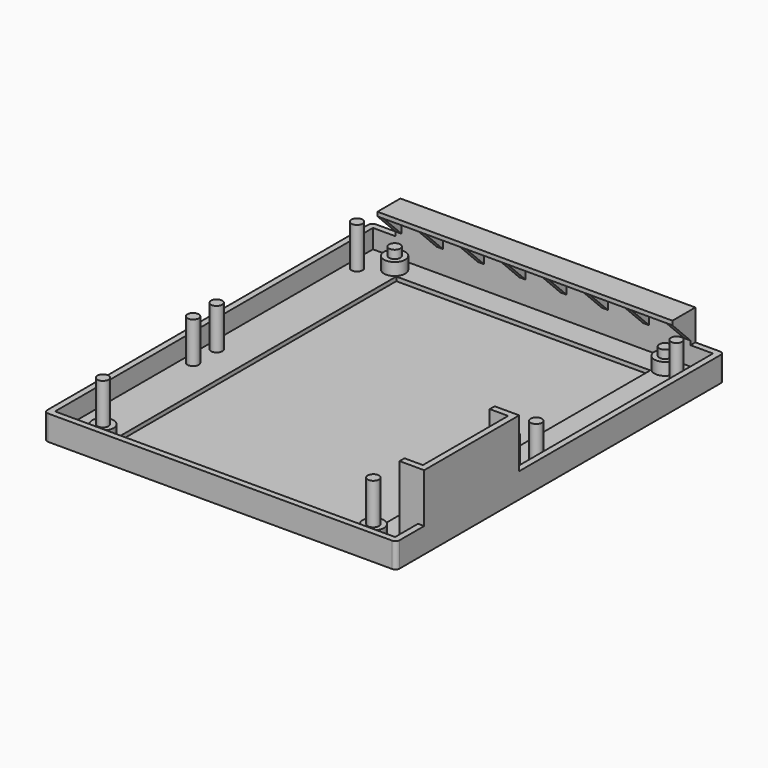
from build123d import *

# Parameters (mm, degrees)
SKETCH002_W            = 100
SKETCH002_H            = 1.5
PAD001_DEPTH           = 79
PAD001_DEPTH_BACK      = 7
SKETCH004_R            = 2.6
PAD003_DEPTH           = 3
SKETCH007_W            = 29
SKETCH007_H            = 1.5
PAD006_DEPTH           = 16.6
SKETCH008_W            = 29
SKETCH008_H            = 16.6
PAD007_DEPTH           = 4.5
SKETCH009_W            = 26
SKETCH009_H            = 16.6
POCKET001_DEPTH        = 10
SKETCH010_W            = 85
SKETCH010_H            = 62
POCKET002_DEPTH        = 1
PAD009_DEPTH           = 4.6
SKETCH019_W            = 1.5
SKETCH019_H            = 72
PAD015_DEPTH           = 6.5
PAD016_DEPTH           = 1.5
LINEARPATTERN_COUNT    = 8
LINEARPATTERN_PITCH    = 10.071429
SKETCH021_W            = 7
SKETCH021_H            = 72
PAD017_DEPTH           = 1
SKETCH022_R            = 1.4
SKETCH022_R_2          = 1.37
PAD023_DEPTH           = 2
SKETCH029_R            = 1.37
PAD024_DEPTH           = 10
SKETCH031_R            = 1.37
PAD026_DEPTH           = 10
FILLET001_R            = 1
LINEARPATTERN001_COUNT = 2
LINEARPATTERN001_PITCH = 42.8
SKETCH036_R            = 1.37
PAD029_DEPTH           = 10


with BuildPart() as part:
    # Sketch002 → Pad001 (new body, two sides)
    with BuildSketch(Plane.YZ) as pad001_sk:
        with Locations((47.5, -3.75)):
            Rectangle(SKETCH002_W, SKETCH002_H)
    extrude(amount=PAD001_DEPTH)
    extrude(pad001_sk.sketch, amount=-PAD001_DEPTH_BACK)

    # Sketch004 (on Face1 of Pad001) → Pad003 (join)
    with BuildSketch(Plane(origin=(0, 0, -3), x_dir=(0, -1, 0), z_dir=(0, 0, 1))):
        with Locations((-3, 3)):
            Circle(SKETCH004_R)
        with Locations((-3, 69)):
            Circle(SKETCH004_R)
        with Locations((-92, 3)):
            Circle(SKETCH004_R)
        with Locations((-92, 69)):
            Circle(SKETCH004_R)
    extrude(amount=PAD003_DEPTH)

    # Sketch007 (on Face1 of Pad003) → Pad006 (join)
    with BuildSketch(Plane(origin=(0, 0, -3), x_dir=(0, -1, 0), z_dir=(0, 0, 1))):
        with Locations((-20.5, 78.25)):
            Rectangle(SKETCH007_W, SKETCH007_H)
    extrude(amount=PAD006_DEPTH)

    # Sketch008 (on Face6 of Pad006) → Pad007 (join)
    with BuildSketch(Plane(origin=(77.5, 0, 0), x_dir=(0, 1, 0), z_dir=(-1, 0, 0))):
        with Locations((20.5, -5.3)):
            Rectangle(SKETCH008_W, SKETCH008_H)
    extrude(amount=PAD007_DEPTH)

    # Sketch009 (on Face6 of Pad006) → Pocket001 (cut)
    with BuildSketch(Plane(origin=(77.5, 0, 0), x_dir=(0, 1, 0), z_dir=(-1, 0, 0))):
        with Locations((20.5, -5.3)):
            Rectangle(SKETCH009_W, SKETCH009_H)
    extrude(amount=POCKET001_DEPTH, mode=Mode.SUBTRACT)

    # Sketch010 (on Face1 of Pocket001) → Pocket002 (cut)
    with BuildSketch(Plane(origin=(0, 0, -3), x_dir=(0, -1, 0), z_dir=(0, 0, 1))):
        with Locations((-47.5, 36)):
            Rectangle(SKETCH010_W, SKETCH010_H)
    extrude(amount=-POCKET002_DEPTH, mode=Mode.SUBTRACT)

    # Sketch012 (on Face1 of Pocket002) → Pad009 (join)
    with BuildSketch(Plane(origin=(0, 0, -3), x_dir=(0, -1, 0), z_dir=(0, 0, 1))):
        Polygon((-35, 79), (-35, 77.5), (-96, 77.5), (-96, -5.5), (1, -5.5), (1, 77.5), (-6, 77.5), (-6, 79), (2.5, 79), (2.5, -7), (-97.5, -7), (-97.5, 79), align=None)
    extrude(amount=PAD009_DEPTH)

    # Sketch019 (on Face20 of Pad009) → Pad015 (join)
    with BuildSketch(Plane(origin=(0, 0, 1.6), x_dir=(0, -1, 0), z_dir=(0, 0, 1))):
        with Locations((-96.75, 36)):
            Rectangle(SKETCH019_W, SKETCH019_H)
    extrude(amount=PAD015_DEPTH)

    # Sketch020 (on Face41 of Pad015) → Pad016 (join)
    with BuildSketch(Plane.YZ.offset(72)):
        Polygon((96, 8.1), (96, 2.6), (90.5, 8.1), align=None)
    pad016 = extrude(amount=-PAD016_DEPTH)

    # LinearPattern: Pad016 ×8
    with Locations(*[(-i * LINEARPATTERN_PITCH, 0, 0) for i in range(1, LINEARPATTERN_COUNT)]):
        add(pad016)

    # Sketch021 (on Face44 of LinearPattern) → Pad017 (join)
    with BuildSketch(Plane(origin=(0, 0, 8.1), x_dir=(0, -1, 0), z_dir=(0, 0, 1))):
        with Locations((-94, 36)):
            Rectangle(SKETCH021_W, SKETCH021_H)
    extrude(amount=PAD017_DEPTH)

    # Sketch022 (on Face31 of Pad017) → Pad023 (join)
    with BuildSketch(Plane(origin=(0, 0, 0), x_dir=(0, -1, 0), z_dir=(0, 0, 1))):
        with Locations((-92, 69)):
            Circle(SKETCH022_R)
        with Locations((-92, 3)):
            Circle(SKETCH022_R_2)
    extrude(amount=PAD023_DEPTH)

    # Sketch029 (on Face32 of Pad023) → Pad024 (join)
    with BuildSketch(Plane(origin=(0, 0, 0), x_dir=(0, -1, 0), z_dir=(0, 0, 1))):
        with Locations((-3, 69)):
            Circle(SKETCH029_R)
        with Locations((-3, 3)):
            Circle(SKETCH029_R)
    extrude(amount=PAD024_DEPTH)

    # Sketch031 (on Face1 of Pad024) → Pad026 (join)
    with BuildSketch(Plane(origin=(0, 0, -3), x_dir=(0, -1, 0), z_dir=(0, 0, 1))):
        with Locations((-88, -3)):
            Circle(SKETCH031_R)
        with Locations((-88, 75)):
            Circle(SKETCH031_R)
    pad026 = extrude(amount=PAD026_DEPTH)

    # Fillet001
    fillet001_edges = [part.edges().sort_by_distance(p)[0] for p in [
        (79, 97.5, -0.7),
        (-7, 97.5, -0.7),
        (-7, -2.5, -0.7),
        (79, -2.5, -0.7),
    ]]
    fillet(fillet001_edges, radius=FILLET001_R)

    # LinearPattern001: Pad026 ×2
    with Locations(*[(0, -i * LINEARPATTERN001_PITCH, 0) for i in range(1, LINEARPATTERN001_COUNT)]):
        add(pad026)

    # Sketch036 (on Face21 of LinearPattern001) → Pad029 (join)
    with BuildSketch(Plane(origin=(0, 0, -3), x_dir=(0, -1, 0), z_dir=(0, 0, 1))):
        with Locations((-38, 75)):
            Circle(SKETCH036_R)
        with Locations((-38, -3)):
            Circle(SKETCH036_R)
    extrude(amount=PAD029_DEPTH)


solid = part.part
